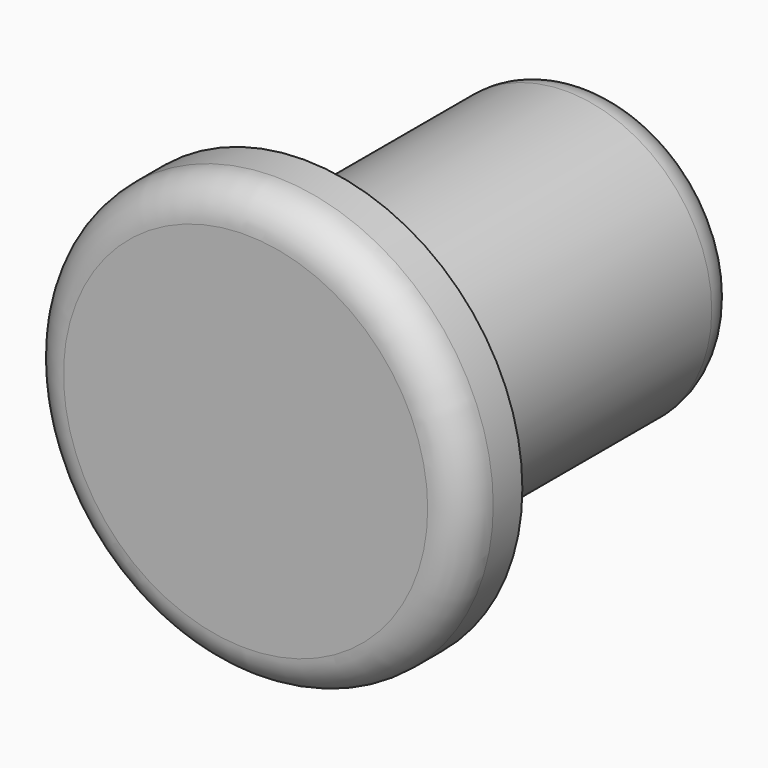
from build123d import *

# Parameters (mm, degrees)
F0_R     = 4
F1_DEPTH = 10
F2_R     = 6
F3_DEPTH = 2
F4_R     = 1


with BuildPart() as f1:
    # F0 (on Front) → F1 (new body)
    with BuildSketch(Plane.XZ):
        Circle(F0_R)
    extrude(amount=F1_DEPTH)

    # F2 (on face) → F3 (join)
    with BuildSketch(Plane.XZ.offset(10)):
        Circle(F2_R)
    extrude(amount=F3_DEPTH)

    # F4
    f4_edges = [f1.edges().sort_by_distance(p)[0] for p in [
        (-4, 0, 0),
        (-6, -12, 0),
    ]]
    fillet(f4_edges, radius=F4_R)


solid = f1.part
